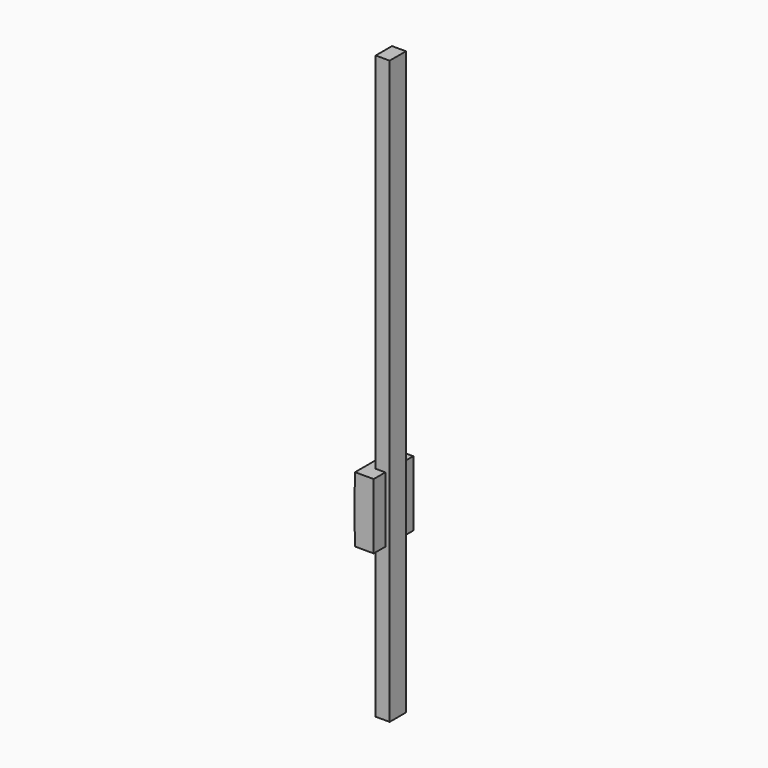
from build123d import *

# Parameters (mm, degrees)
SKETCH039_W             = 7
SKETCH039_H             = 4.8
PAD017_DEPTH            = 200
SKETCH038_W             = 17
SKETCH038_H             = 22.5
PAD018_DEPTH            = 6.5
SKETCH041_W             = 17
SKETCH041_H             = 4.5
POCKET021_DEPTH         = 0.1
SKETCH040_R             = 1.2
POCKET022_DEPTH         = 2.5
BODY009_ROLL_ANGLE      = 90
BODY009_PLACEMENT_ANGLE = -90


with BuildPart() as part:
    # Sketch039 → Pad017 (new body)
    with BuildSketch(Plane.XZ):
        with Locations((3.5, 2.4)):
            Rectangle(SKETCH039_W, SKETCH039_H)
    extrude(amount=-PAD017_DEPTH)

    # Sketch038 (on Face1 of Pad017) → Pad018 (join)
    with BuildSketch(Plane(origin=(0, 0, 1.5), x_dir=(-1, 0, 0), z_dir=(0, 0, 1))):
        with Locations((-3.5, -63.75)):
            Rectangle(SKETCH038_W, SKETCH038_H)
    extrude(amount=PAD018_DEPTH)

    # Sketch041 (on Face13 of Pad018) → Pocket021 (cut)
    with BuildSketch(Plane(origin=(0, 0, 8), x_dir=(-1, 0, 0), z_dir=(0, 0, 1))):
        with Locations((-3.5, -54.75)):
            Rectangle(SKETCH041_W, SKETCH041_H)
        with Locations((-3.5, -72.75)):
            Rectangle(SKETCH041_W, SKETCH041_H)
    extrude(amount=-POCKET021_DEPTH, mode=Mode.SUBTRACT)

    # Sketch040 (on Face17 of Pocket021) → Pocket022 (cut)
    with BuildSketch(Plane(origin=(0, 0, 8), x_dir=(-1, 0, 0), z_dir=(0, 0, 1))):
        with Locations((-9.5, -59.75)):
            Circle(SKETCH040_R)
        with Locations((2.5, -59.75)):
            Circle(SKETCH040_R)
        with Locations((2.5, -67.75)):
            Circle(SKETCH040_R)
        with Locations((-9.5, -67.75)):
            Circle(SKETCH040_R)
    extrude(amount=-POCKET022_DEPTH, mode=Mode.SUBTRACT)


with BuildPart() as part_1:
    # Body009 roll: moved
    add(part.part.rotate(Axis((0, 0, 0), (1, 0, 0)), BODY009_ROLL_ANGLE))


with BuildPart() as part_2:
    # Body009 placement: moved
    add(part_1.part.moved(Location((109, 92.5, -111))).rotate(Axis((109, 92.5, -111), (0, 0, 1)), BODY009_PLACEMENT_ANGLE))


solid = part_2.part
